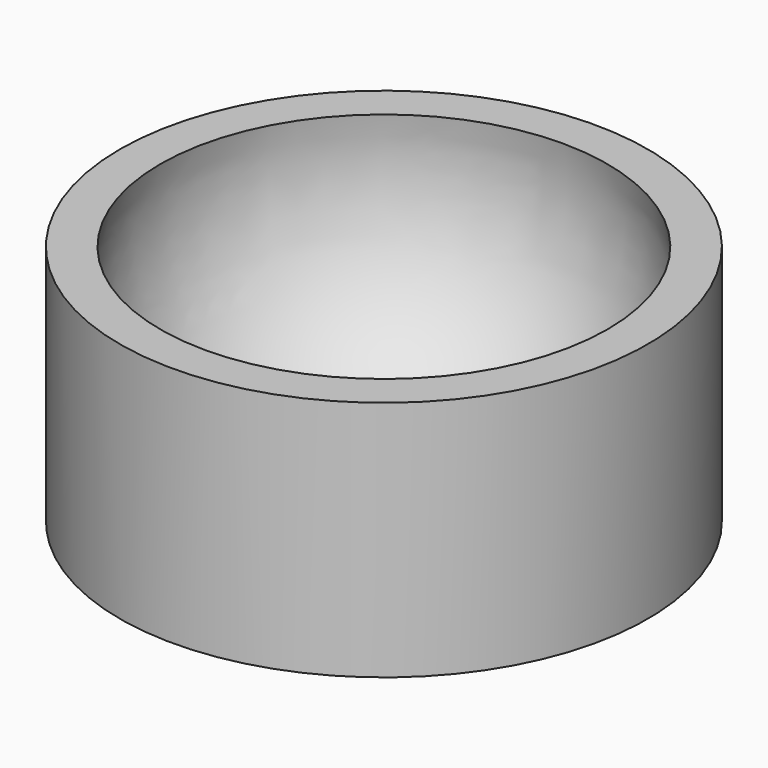
from build123d import *

# Parameters (mm, degrees)
F2_R     = 4.65583
F3_DEPTH = 0.127


with BuildPart() as f1:
    # F0 (on Front) → F1 (revolve)
    with BuildSketch(Plane.XZ):
        with BuildLine():
            Line((-39.453629, 22.178778), (-46.560183, 22.178778))
            Line((-46.560183, 22.178778), (-46.560183, -20.463578))
            Line((-46.560183, -20.463578), (-4.656019, -20.463578))
            ThreePointArc((-4.656019, -20.463578), (-32.175305, -7.401055), (-39.453629, 22.178778))
        make_face()
    revolve(axis=Axis((0, 0, -3.676213), (0, 0, -1)))


with BuildPart() as f3:
    # F2 (on face) → F3 (new body)
    with BuildSketch(Plane(origin=(0, 0, -20.463578), x_dir=(1, 0, 0), z_dir=(0, 0, -1))):
        Circle(F2_R)
    extrude(amount=-F3_DEPTH)


solid = Compound([f1.part, f3.part])
